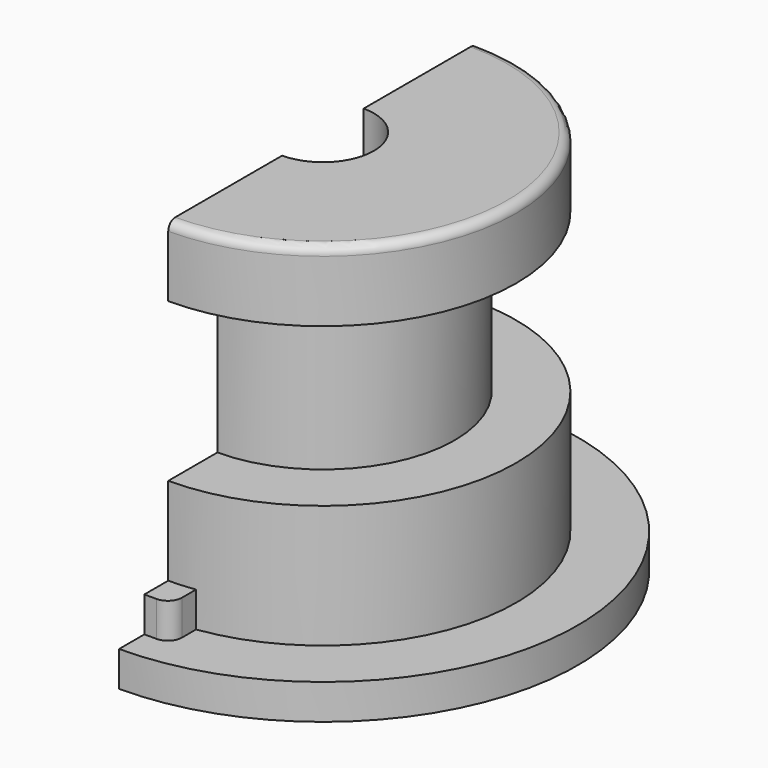
from build123d import *

# Parameters (mm, degrees)
F0_R      = 14.5
F1_DEPTH  = 2
F2_R      = 11
F3_DEPTH  = 20
F4_R      = 2.9
F5_DEPTH  = 22.001
F6_W      = 3
F6_H      = 3.4
F7_DEPTH  = 2
F8_R      = 0.8
F9_R      = 0.5
F11_W     = 28.85052
F11_H     = 54.144128
F12_DEPTH = 22.001
F14_W     = 3.5
F14_H     = 9


with BuildPart() as f1:
    # F0 (on Top) → F1 (new body)
    with BuildSketch(Plane.XY):
        Circle(F0_R)
    extrude(amount=F1_DEPTH)

    # F2 (on face) → F3 (join)
    with BuildSketch(Plane.XY.offset(2)):
        Circle(F2_R)
    extrude(amount=F3_DEPTH)

    # F4 (on face) → F5 (cut, through all)
    with BuildSketch(Plane(origin=(0, 0, 0), x_dir=(1, 0, 0), z_dir=(0, 0, -1))):
        Circle(F4_R)
    extrude(amount=-F5_DEPTH, mode=Mode.SUBTRACT)

    # F6 (on face) → F7 (join)
    with BuildSketch(Plane.XY.offset(2)):
        with Locations((0, -11)):
            Rectangle(F6_W, F6_H)
    extrude(amount=F7_DEPTH)

    # F8
    f8_edges = [f1.edges().sort_by_distance(p)[0] for p in [
        (-1.5, -12.7, 3),
        (1.5, -12.7, 3),
    ]]
    fillet(f8_edges, radius=F8_R)

    # F9
    f9_edges = [f1.edges().sort_by_distance(p)[0] for p in [
        (-11, 0, 22),
    ]]
    fillet(f9_edges, radius=F9_R)

    # F11 (on Top) → F12 (cut, through all)
    with BuildSketch(Plane.XY):
        with Locations((-14.42526, 2.568883)):
            Rectangle(F11_W, F11_H)
    extrude(amount=F12_DEPTH, mode=Mode.SUBTRACT)

    # F14 (on Front) → F15 (revolve, cut)
    with BuildSketch(Plane.XZ):
        with Locations((9.25, 13.5)):
            Rectangle(F14_W, F14_H)
    revolve(axis=Axis((0, 0, 13.307823), (0, 0, 1)), mode=Mode.SUBTRACT)


solid = f1.part
